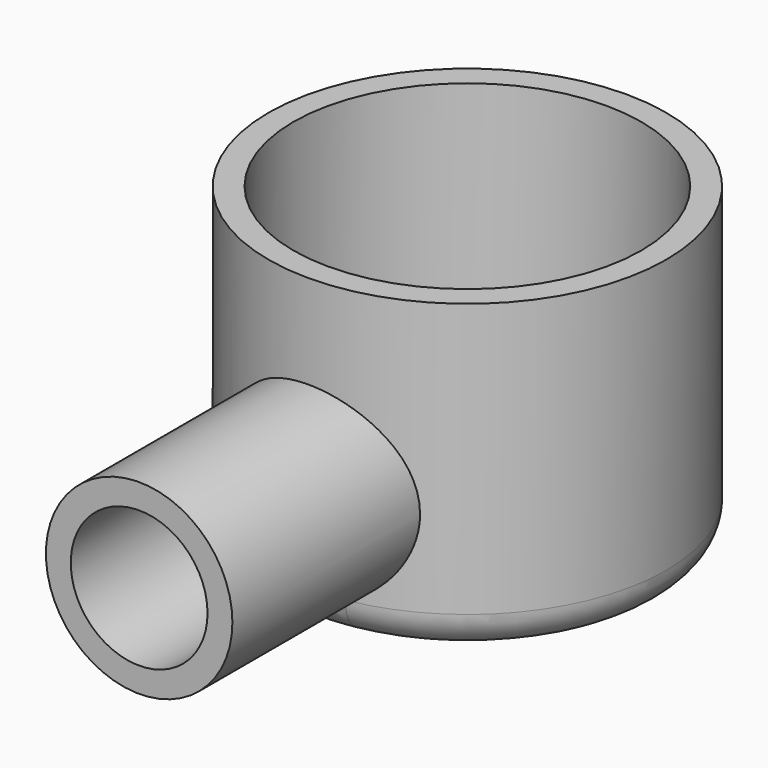
from build123d import *

# Parameters (mm, degrees)
F0_R     = 16
F1_DEPTH = 25
F3_R     = 7.5
F4_DEPTH = 20
F5_T     = -2
F6_R     = 3


with BuildPart() as f1:
    # F0 (on Top) → F1 (new body)
    with BuildSketch(Plane.XY):
        Circle(F0_R)
    extrude(amount=F1_DEPTH)

    # F3 (on offset) → F4 (join)
    with BuildSketch(Plane.XZ.offset(13)):
        with Locations((0, 9.9646812305)):
            Circle(F3_R)
    extrude(amount=F4_DEPTH)

    # F5
    f5_openings = [f1.faces().sort_by_distance(p)[0] for p in [
        (0, 0, 25),
        (0, -33, 9.964681),
    ]]
    offset(amount=F5_T, openings=f5_openings, kind=Kind.INTERSECTION)

    # F6
    f6_edges = [f1.edges().sort_by_distance(p)[0] for p in [
        (-16, 0, 0),
    ]]
    fillet(f6_edges, radius=F6_R)


solid = f1.part
